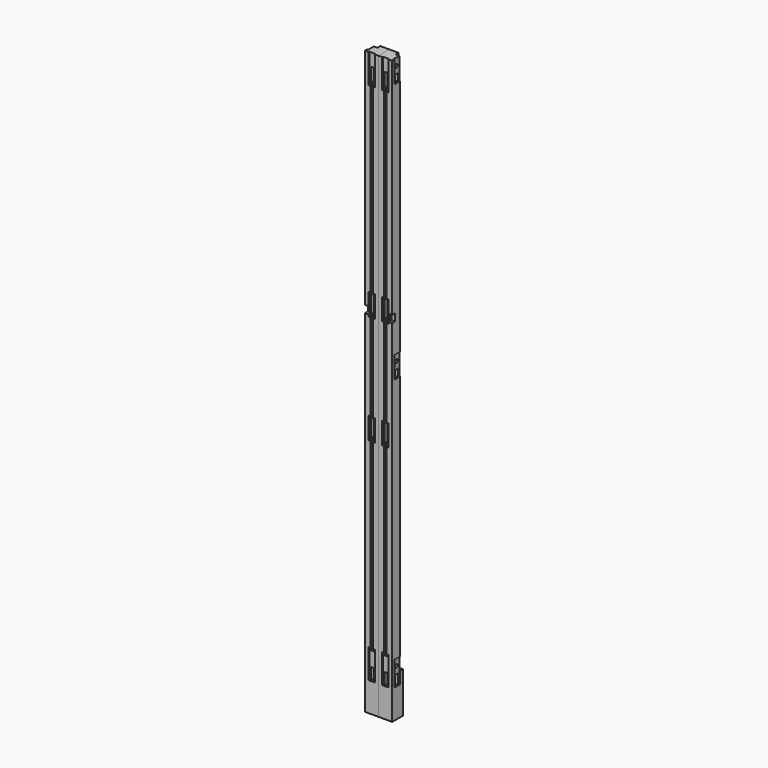
from build123d import *

# Parameters (mm, degrees)
F0_W      = 47.625
F0_H      = 47.625
F1_DEPTH  = 2032
F2_W      = 9.525
F2_H      = 41.275
F2_H_2    = 47.625
F2_H_3    = 57.15
F3_DEPTH  = 38.1
F2_H_4    = 9.525
F2_H_5    = 635
F2_H_6    = 304.8
F4_DEPTH  = 9.525
F2_H_7    = 44.45
F5_DEPTH  = 3.175
F7_D      = 11.90625
F7_DEPTH  = 34.925
F7_TIP    = 3.5769983726
F6_W      = 12.7
F6_H      = 25.4
F6_H_2    = 34.925
F8_DEPTH  = 15.875
F9_DEPTH  = 3.175
F10_W     = 15.875
F10_H     = 1889.125
F11_DEPTH = 12.7
F12_W     = 12.7
F12_H     = 25.4
F13_DEPTH = 12.7


with BuildPart() as f1:
    # F0 (on Top) → F1 (new body)
    with BuildSketch(Plane.XY):
        with Locations((23.8125, 23.8125)):
            Rectangle(F0_W, F0_H)
    extrude(amount=F1_DEPTH)

    # F2 (on face) → F3 (cut)
    with BuildSketch(Plane.XZ):
        with Locations((23.8125, 122.2375)):
            Rectangle(F2_W, F2_H)
        with Locations((23.8125, 1963.7375)):
            Rectangle(F2_W, F2_H_2)
        with Locations((23.8125, 876.3)):
            Rectangle(F2_W, F2_H_3)
        with Locations((23.8125, 1257.3)):
            Rectangle(F2_W, F2_H_3)
    extrude(amount=-F3_DEPTH, mode=Mode.SUBTRACT)

    # F2 (on face) → F4 (cut)
    with BuildSketch(Plane.XZ):
        with Locations((23.8125, 198.4375)):
            Rectangle(F2_W, F2_H_4)
        with Locations((23.8125, 520.7)):
            Rectangle(F2_W, F2_H_5)
        with Locations((23.8125, 1066.8)):
            Rectangle(F2_W, F2_H_6)
        with Locations((23.8125, 1612.9)):
            Rectangle(F2_W, F2_H_5)
        with Locations((23.8125, 1935.1625)):
            Rectangle(F2_W, F2_H_4)
        with Locations((23.8125, 1223.9625)):
            Rectangle(F2_W, F2_H_4)
        with Locations((23.8125, 842.9625)):
            Rectangle(F2_W, F2_H_4)
        with Locations((23.8125, 1290.6375)):
            Rectangle(F2_W, F2_H_4)
        with Locations((23.8125, 909.6375)):
            Rectangle(F2_W, F2_H_4)
    extrude(amount=-F4_DEPTH, mode=Mode.SUBTRACT)

    # F2 (on face) → F5 (cut)
    with BuildSketch(Plane.XZ):
        Polygon((12.7, 1930.4), (19.05, 1930.4), (19.05, 1939.925), (19.05, 1987.55), (19.05, 2032), (12.7, 2032), align=None)
        with Locations((23.8125, 2009.775)):
            Rectangle(F2_W, F2_H_7)
        Polygon((28.575, 1939.925), (28.575, 1930.4), (34.925, 1930.4), (34.925, 2032), (28.575, 2032), (28.575, 1987.55), align=None)
        Polygon((12.7, 1219.2), (19.05, 1219.2), (19.05, 1228.725), (19.05, 1285.875), (19.05, 1295.4), (12.7, 1295.4), align=None)
        Polygon((28.575, 1228.725), (28.575, 1219.2), (34.925, 1219.2), (34.925, 1295.4), (28.575, 1295.4), (28.575, 1285.875), align=None)
        Polygon((12.7, 838.2), (19.05, 838.2), (19.05, 847.725), (19.05, 904.875), (19.05, 914.4), (12.7, 914.4), align=None)
        Polygon((28.575, 847.725), (28.575, 838.2), (34.925, 838.2), (34.925, 914.4), (28.575, 914.4), (28.575, 904.875), align=None)
        Polygon((34.925, 101.6), (34.925, 203.2), (28.575, 203.2), (28.575, 193.675), (19.05, 193.675), (19.05, 203.2), (12.7, 203.2), (12.7, 101.6), (19.05, 101.6), (19.05, 142.875), (28.575, 142.875), (28.575, 101.6), align=None)
    extrude(amount=-F5_DEPTH, mode=Mode.SUBTRACT)

    # F7
    with Locations(Plane.YZ.offset(47.625)):
        with Locations((22.225, 2006.6), (22.225, 161.925), (22.225, 1098.55)):
            Hole(F7_D / 2, depth=F7_DEPTH)
            with Locations((0, 0, -(F7_DEPTH + F7_TIP / 2))):  # 118° drill point
                Cone(0, F7_D / 2, F7_TIP, mode=Mode.SUBTRACT)

    # F6 (on face) → F8 (cut)
    with BuildSketch(Plane.YZ.offset(47.625)):
        with Locations((22.225, 1968.5)):
            Rectangle(F6_W, F6_H)
        with Locations((22.225, 119.0625)):
            Rectangle(F6_W, F6_H_2)
        with Locations((22.225, 1060.45)):
            Rectangle(F6_W, F6_H)
    extrude(amount=-F8_DEPTH, mode=Mode.SUBTRACT)

    # F6 (on face) → F9 (cut)
    with BuildSketch(Plane.YZ.offset(47.625)):
        Polygon((28.575, 101.6), (34.925, 101.6), (34.925, 187.325), (9.525, 187.325), (9.525, 101.6), (15.875, 101.6), (15.875, 136.525), (28.575, 136.525), align=None)
        Polygon((9.525, 2032), (9.525, 1955.8), (15.875, 1955.8), (15.875, 1981.2), (28.575, 1981.2), (28.575, 1955.8), (34.925, 1955.8), (34.925, 2032), align=None)
        Polygon((9.525, 1123.95), (9.525, 1047.75), (15.875, 1047.75), (15.875, 1073.15), (28.575, 1073.15), (28.575, 1047.75), (34.925, 1047.75), (34.925, 1123.95), align=None)
    extrude(amount=-F9_DEPTH, mode=Mode.SUBTRACT)

    # F10 (on face) → F11 (cut)
    with BuildSketch(Plane(origin=(0, 47.625, 0), x_dir=(-1, 0, 0), z_dir=(0, 1, 0))):
        with Locations((-39.6875, 1087.4375)):
            Rectangle(F10_W, F10_H)
    extrude(amount=-F11_DEPTH, mode=Mode.SUBTRACT)

    # F12 (on face) → F13 (cut)
    with BuildSketch(Plane.XZ):
        with Locations((41.275, 1238.25)):
            Rectangle(F12_W, F12_H)
    extrude(amount=-F13_DEPTH, mode=Mode.SUBTRACT)


with BuildPart() as f14_1:
    # F14: instance of F1
    add(f1.part.mirror(Plane.YZ))


solid = Compound([f1.part, f14_1.part])
